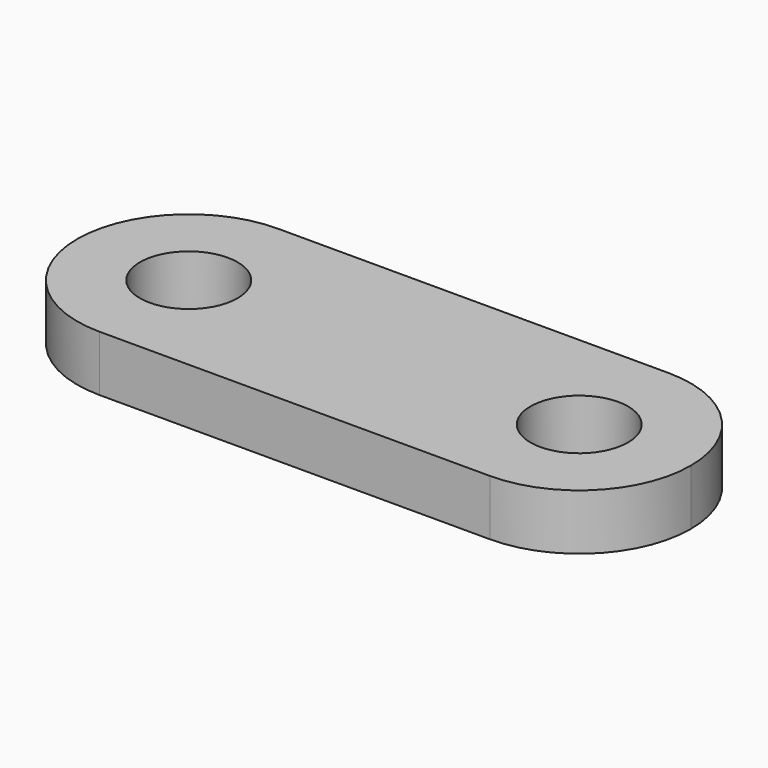
from build123d import *

# Parameters (mm, degrees)
F0_R     = 1.75
F1_DEPTH = 2


with BuildPart() as f1:
    # F0 (on Top) → F1 (new body)
    with BuildSketch(Plane.XY):
        with BuildLine():
            Line((7, 4), (-7, 4))
            ThreePointArc((-7, 4), (-9.828427, 2.828427), (-11, 0))
            ThreePointArc((-11, 0), (-9.828427, -2.828427), (-7, -4))
            Line((-7, -4), (7, -4))
            ThreePointArc((7, -4), (9.828427, -2.828427), (11, 0))
            ThreePointArc((11, 0), (9.828427, 2.828427), (7, 4))
        make_face()
        with Locations((-7, 0)):
            Circle(F0_R, mode=Mode.SUBTRACT)
        with Locations((7, 0)):
            Circle(F0_R, mode=Mode.SUBTRACT)
    extrude(amount=F1_DEPTH)


solid = f1.part
